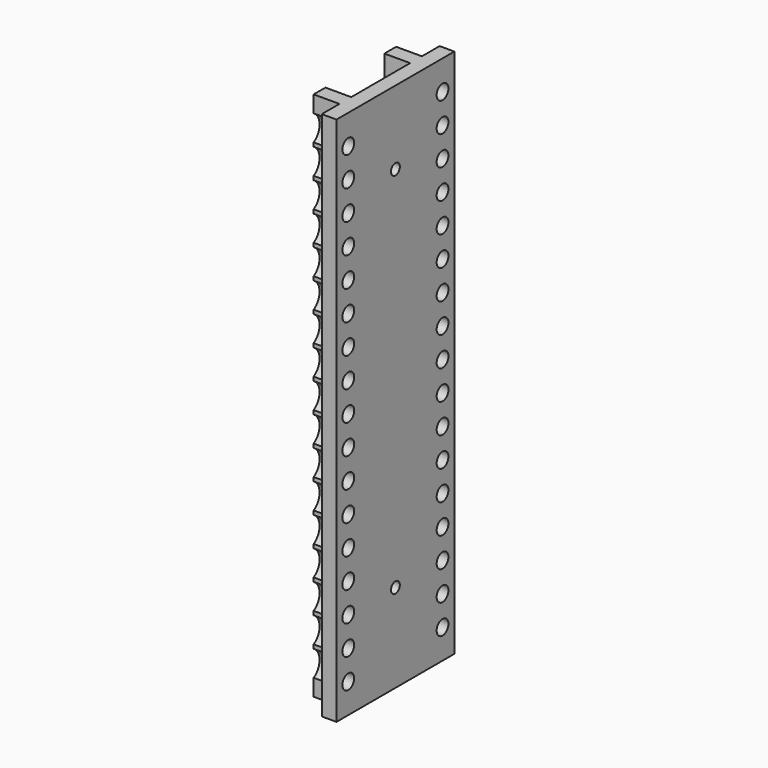
from build123d import *

# Parameters (mm, degrees)
PAD035_DEPTH            = 144
SKETCH070_W             = 40
SKETCH070_H             = 144
PAD036_DEPTH            = 4
SKETCH071_R             = 1.5
POCKET033_DEPTH         = 5
SKETCH072_R             = 2
POCKET034_DEPTH         = 4
SKETCH073_R             = 4
POCKET035_DEPTH         = 7
BODY020_PLACEMENT_ANGLE = 90


with BuildPart() as leftfront002:
    # Sketch069 → Pad035 (new body)
    with BuildSketch(Plane.XZ):
        Polygon((0, 0), (0, 10), (7, 10), (7, 14), (-4, 14), (-4, -14), (7, -14), (7, -10), (0, -10), align=None)
    extrude(amount=PAD035_DEPTH)

    # Sketch070 (on Face4 of Pad035) → Pad036 (join)
    with BuildSketch(Plane(origin=(-4, 0, 0), x_dir=(0, 0, -1), z_dir=(-1, 0, 0))):
        with Locations((0, 72)):
            Rectangle(SKETCH070_W, SKETCH070_H)
    extrude(amount=-PAD036_DEPTH)

    # Sketch071 (on Face14 of Pad036) → Pocket033 (cut)
    with BuildSketch(Plane(origin=(-4, 0, 0), x_dir=(0, 0, -1), z_dir=(-1, 0, 0))):
        with Locations((0, 20)):
            Circle(SKETCH071_R)
        with Locations((0, 120)):
            Circle(SKETCH071_R)
    extrude(amount=-POCKET033_DEPTH, mode=Mode.SUBTRACT)

    # Sketch072 (on Face14 of Pocket033) → Pocket034 (cut)
    with BuildSketch(Plane(origin=(-4, 0, 0), x_dir=(0, 0, -1), z_dir=(-1, 0, 0))):
        with Locations((-16, 8)):
            Circle(SKETCH072_R)
        with Locations((-16, 16)):
            Circle(SKETCH072_R)
        with Locations((-16, 24)):
            Circle(SKETCH072_R)
        with Locations((-16, 32)):
            Circle(SKETCH072_R)
        with Locations((-16, 40)):
            Circle(SKETCH072_R)
        with Locations((-16, 48)):
            Circle(SKETCH072_R)
        with Locations((-16, 56)):
            Circle(SKETCH072_R)
        with Locations((-16, 64)):
            Circle(SKETCH072_R)
        with Locations((-16, 136)):
            Circle(SKETCH072_R)
        with Locations((-16, 128)):
            Circle(SKETCH072_R)
        with Locations((-16, 120)):
            Circle(SKETCH072_R)
        with Locations((-16, 112)):
            Circle(SKETCH072_R)
        with Locations((-16, 104)):
            Circle(SKETCH072_R)
        with Locations((-16, 96)):
            Circle(SKETCH072_R)
        with Locations((-16, 88)):
            Circle(SKETCH072_R)
        with Locations((-16, 80)):
            Circle(SKETCH072_R)
        with Locations((-16, 72)):
            Circle(SKETCH072_R)
        with Locations((16, 136)):
            Circle(SKETCH072_R)
        with Locations((16, 128)):
            Circle(SKETCH072_R)
        with Locations((16, 120)):
            Circle(SKETCH072_R)
        with Locations((16, 112)):
            Circle(SKETCH072_R)
        with Locations((16, 104)):
            Circle(SKETCH072_R)
        with Locations((16, 96)):
            Circle(SKETCH072_R)
        with Locations((16, 88)):
            Circle(SKETCH072_R)
        with Locations((16, 80)):
            Circle(SKETCH072_R)
        with Locations((16, 72)):
            Circle(SKETCH072_R)
        with Locations((16, 64)):
            Circle(SKETCH072_R)
        with Locations((16, 56)):
            Circle(SKETCH072_R)
        with Locations((16, 48)):
            Circle(SKETCH072_R)
        with Locations((16, 40)):
            Circle(SKETCH072_R)
        with Locations((16, 32)):
            Circle(SKETCH072_R)
        with Locations((16, 24)):
            Circle(SKETCH072_R)
        with Locations((16, 16)):
            Circle(SKETCH072_R)
        with Locations((16, 8)):
            Circle(SKETCH072_R)
    extrude(amount=-POCKET034_DEPTH, mode=Mode.SUBTRACT)

    # Sketch073 (on Face16 of Pocket033) → Pocket035 (cut)
    with BuildSketch(Plane(origin=(0, 0, 0), x_dir=(0, 0, 1), z_dir=(1, 0, 0))):
        with Locations((-16, 8)):
            Circle(SKETCH073_R)
        with Locations((-16, 16)):
            Circle(SKETCH073_R)
        with Locations((-16, 24)):
            Circle(SKETCH073_R)
        with Locations((-16, 32)):
            Circle(SKETCH073_R)
        with Locations((-16, 40)):
            Circle(SKETCH073_R)
        with Locations((-16, 48)):
            Circle(SKETCH073_R)
        with Locations((-16, 56)):
            Circle(SKETCH073_R)
        with Locations((-16, 64)):
            Circle(SKETCH073_R)
        with Locations((-16, 136)):
            Circle(SKETCH073_R)
        with Locations((-16, 128)):
            Circle(SKETCH073_R)
        with Locations((-16, 120)):
            Circle(SKETCH073_R)
        with Locations((-16, 112)):
            Circle(SKETCH073_R)
        with Locations((-16, 104)):
            Circle(SKETCH073_R)
        with Locations((-16, 96)):
            Circle(SKETCH073_R)
        with Locations((-16, 88)):
            Circle(SKETCH073_R)
        with Locations((-16, 80)):
            Circle(SKETCH073_R)
        with Locations((-16, 72)):
            Circle(SKETCH073_R)
        with Locations((16, 136)):
            Circle(SKETCH073_R)
        with Locations((16, 128)):
            Circle(SKETCH073_R)
        with Locations((16, 120)):
            Circle(SKETCH073_R)
        with Locations((16, 112)):
            Circle(SKETCH073_R)
        with Locations((16, 104)):
            Circle(SKETCH073_R)
        with Locations((16, 96)):
            Circle(SKETCH073_R)
        with Locations((16, 88)):
            Circle(SKETCH073_R)
        with Locations((16, 80)):
            Circle(SKETCH073_R)
        with Locations((16, 72)):
            Circle(SKETCH073_R)
        with Locations((16, 64)):
            Circle(SKETCH073_R)
        with Locations((16, 56)):
            Circle(SKETCH073_R)
        with Locations((16, 48)):
            Circle(SKETCH073_R)
        with Locations((16, 40)):
            Circle(SKETCH073_R)
        with Locations((16, 32)):
            Circle(SKETCH073_R)
        with Locations((16, 24)):
            Circle(SKETCH073_R)
        with Locations((16, 16)):
            Circle(SKETCH073_R)
        with Locations((16, 8)):
            Circle(SKETCH073_R)
    extrude(amount=POCKET035_DEPTH, mode=Mode.SUBTRACT)


with BuildPart() as leftfront002_1:
    # Body020 placement: moved
    add(leftfront002.part.moved(Location((-136, -275.5, 350))).rotate(Axis((-136, -275.5, 350), (1, 0, 0)), BODY020_PLACEMENT_ANGLE))


with BuildPart() as rightfront002:
    # Part__Mirroring009: instance of LeftFront002
    add(leftfront002_1.part.mirror(Plane(origin=(0, 0, 0), x_dir=(0, -1, 0), z_dir=(1, 0, 0))))


solid = rightfront002.part
